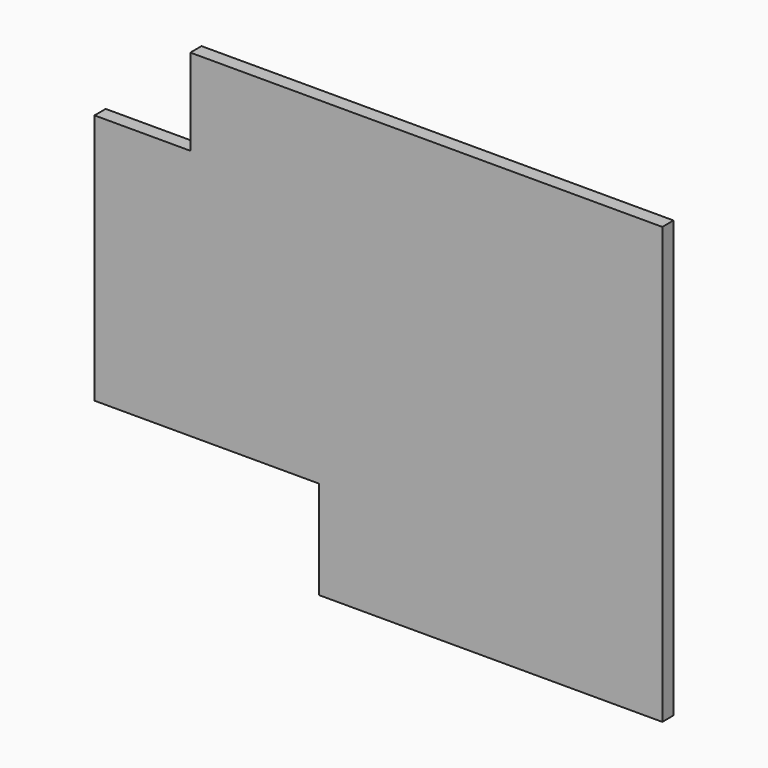
from build123d import *

# Parameters (mm, degrees)
F0_W     = 771.525
F0_H     = 296.06875
F1_DEPTH = 9.525
F2_W     = 304.8
F2_H     = 133.35
F3_DEPTH = 19.051
F4_W     = 130.175
F4_H     = 117.475
F5_DEPTH = 19.051


with BuildPart() as f1:
    # F0 (on Front) → F1 (new body, symmetric)
    with BuildSketch(Plane.XZ):
        with Locations((137.8585046741, 148.034375)):
            Rectangle(F0_W, F0_H)
        with Locations((137.8585046741, -148.034375)):
            Rectangle(F0_W, F0_H)
    extrude(amount=F1_DEPTH, both=True)

    # F2 (on face) → F3 (cut, through all)
    with BuildSketch(Plane.XZ.offset(9.525)):
        with Locations((-95.5039953259, -229.39375)):
            Rectangle(F2_W, F2_H)
    extrude(amount=-F3_DEPTH, mode=Mode.SUBTRACT)

    # F4 (on face) → F5 (cut, through all)
    with BuildSketch(Plane.XZ.offset(9.525)):
        with Locations((-182.8164953259, 237.33125)):
            Rectangle(F4_W, F4_H)
    extrude(amount=-F5_DEPTH, mode=Mode.SUBTRACT)


solid = f1.part
